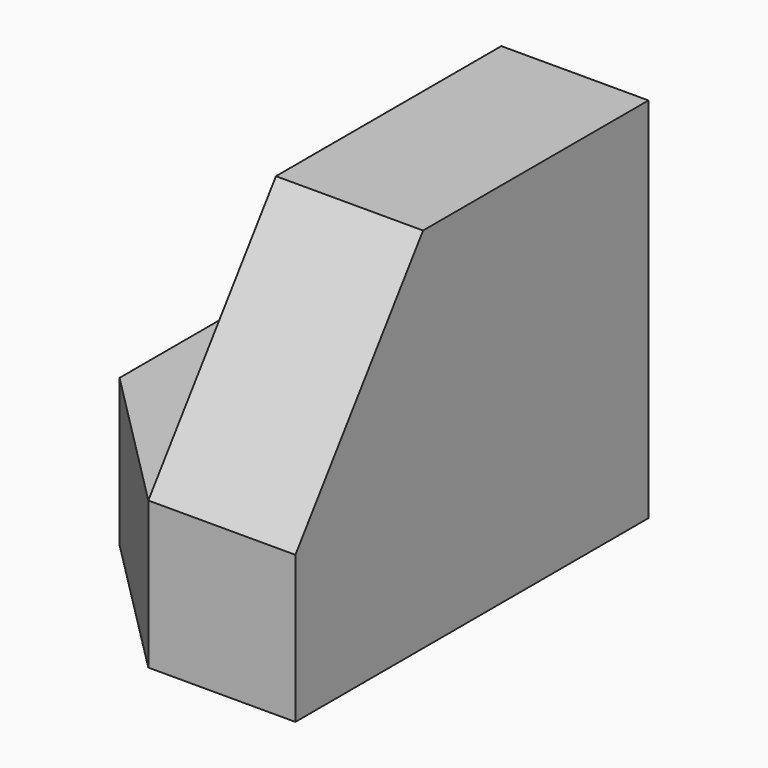
from build123d import *

# Parameters (mm, degrees)
F0_W     = 25.4
F0_H     = 31.75
F1_DEPTH = 38.1
F2_W     = 12.7
F2_H     = 19.05
F3_DEPTH = 38.1
F5_DEPTH = 25.4
F7_DEPTH = 25.4


with BuildPart() as f1:
    # F0 (on Front) → F1 (new body)
    with BuildSketch(Plane.XZ):
        with Locations((-12.7, 15.875)):
            Rectangle(F0_W, F0_H)
    extrude(amount=F1_DEPTH)

    # F2 (on face) → F3 (cut)
    with BuildSketch(Plane.XZ.offset(38.1)):
        with Locations((-19.05, 22.225)):
            Rectangle(F2_W, F2_H)
    extrude(amount=-F3_DEPTH, mode=Mode.SUBTRACT)

    # F4 (on face) → F5 (cut)
    with BuildSketch(Plane.XY.offset(12.7)):
        Polygon((-25.4, -38.1), (-12.7, -38.1), (-25.4, -25.3298), align=None)
    extrude(amount=-F5_DEPTH, mode=Mode.SUBTRACT)

    # F6 (on face) → F7 (cut)
    with BuildSketch(Plane(origin=(-12.7, 0, 0), x_dir=(0, -1, 0), z_dir=(-1, 0, 0))):
        Polygon((24.324648, 31.75), (38.1, 12.7), (38.1, 31.75), align=None)
    extrude(amount=-F7_DEPTH, mode=Mode.SUBTRACT)


solid = f1.part
